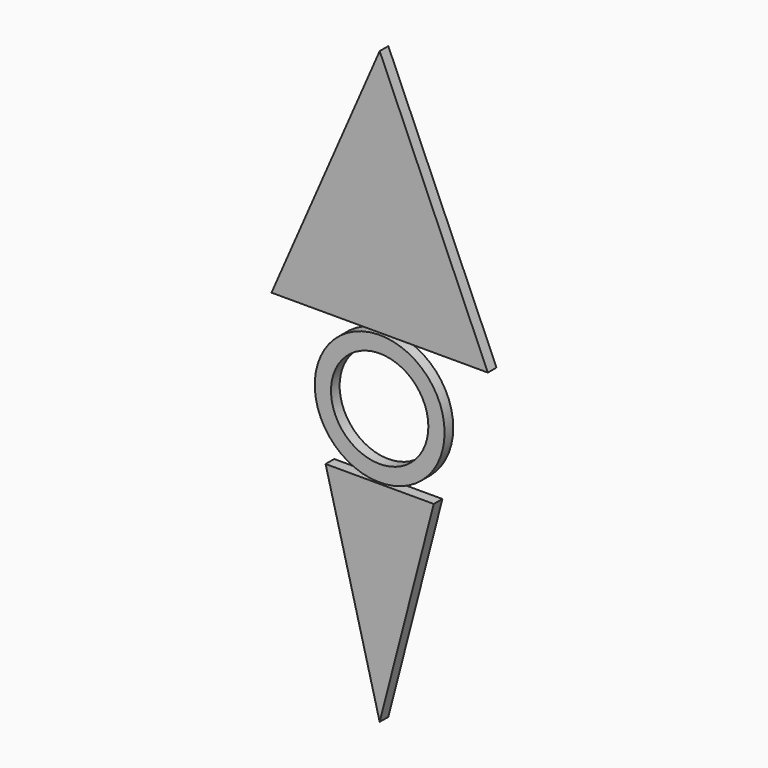
from build123d import *

# Parameters (mm, degrees)
F0_R     = 6
F0_R_2   = 4.5
F1_DEPTH = 1


with BuildPart() as f1:
    # F0 (on Front) → F1 (new body)
    with BuildSketch(Plane.XZ):
        Circle(F0_R)
        Circle(F0_R_2, mode=Mode.SUBTRACT)
        Polygon((5, -6.124214), (-5, -6.124214), (0, -25.489131), align=None)
        Polygon((0, 29.103262), (-10, 6.190384), (10, 6.190384), align=None)
    extrude(amount=F1_DEPTH)


solid = f1.part
